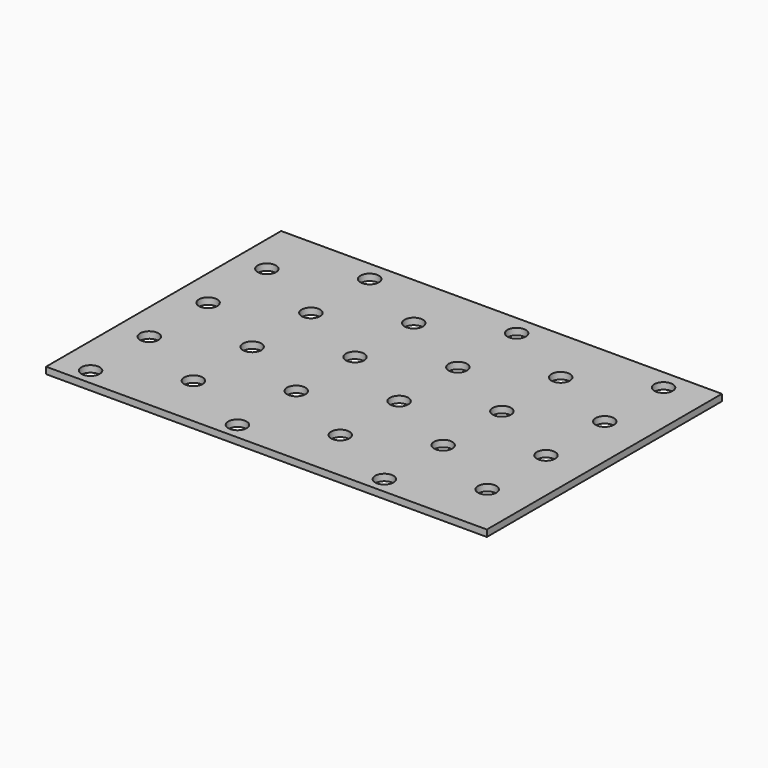
from build123d import *

# Parameters (mm, degrees)
SKETCH_W  = 120
SKETCH_H  = 80
SKETCH_R  = 2.5
PAD_DEPTH = 1.8


with BuildPart() as part:
    # Sketch → Pad (new body)
    with BuildSketch(Plane.XY):
        with Locations((60, 40)):
            Rectangle(SKETCH_W, SKETCH_H)
        with Locations((8.5, 4.5)):
            Circle(SKETCH_R, mode=Mode.SUBTRACT)
        with Locations((48.5, 4.5)):
            Circle(SKETCH_R, mode=Mode.SUBTRACT)
        with Locations((88.5, 4.5)):
            Circle(SKETCH_R, mode=Mode.SUBTRACT)
        with Locations((28.5, 14.5)):
            Circle(SKETCH_R, mode=Mode.SUBTRACT)
        with Locations((108.5, 14.5)):
            Circle(SKETCH_R, mode=Mode.SUBTRACT)
        with Locations((8.5, 24.5)):
            Circle(SKETCH_R, mode=Mode.SUBTRACT)
        with Locations((48.5, 24.5)):
            Circle(SKETCH_R, mode=Mode.SUBTRACT)
        with Locations((88.5, 24.5)):
            Circle(SKETCH_R, mode=Mode.SUBTRACT)
        with Locations((8.5, 44.5)):
            Circle(SKETCH_R, mode=Mode.SUBTRACT)
        with Locations((48.5, 44.5)):
            Circle(SKETCH_R, mode=Mode.SUBTRACT)
        with Locations((88.5, 44.5)):
            Circle(SKETCH_R, mode=Mode.SUBTRACT)
        with Locations((28.5, 54.5)):
            Circle(SKETCH_R, mode=Mode.SUBTRACT)
        with Locations((68.5, 54.5)):
            Circle(SKETCH_R, mode=Mode.SUBTRACT)
        with Locations((108.5, 54.5)):
            Circle(SKETCH_R, mode=Mode.SUBTRACT)
        with Locations((88.5, 64.5)):
            Circle(SKETCH_R, mode=Mode.SUBTRACT)
        with Locations((48.5, 64.5)):
            Circle(SKETCH_R, mode=Mode.SUBTRACT)
        with Locations((8.5, 64.5)):
            Circle(SKETCH_R, mode=Mode.SUBTRACT)
        with Locations((28.5, 34.5)):
            Circle(SKETCH_R, mode=Mode.SUBTRACT)
        with Locations((68.5, 34.5)):
            Circle(SKETCH_R, mode=Mode.SUBTRACT)
        with Locations((108.5, 34.5)):
            Circle(SKETCH_R, mode=Mode.SUBTRACT)
        with Locations((28.5, 74.5)):
            Circle(SKETCH_R, mode=Mode.SUBTRACT)
        with Locations((68.5, 74.5)):
            Circle(SKETCH_R, mode=Mode.SUBTRACT)
        with Locations((108.5, 74.5)):
            Circle(SKETCH_R, mode=Mode.SUBTRACT)
        with Locations((68.5, 14.5)):
            Circle(SKETCH_R, mode=Mode.SUBTRACT)
    extrude(amount=PAD_DEPTH)


solid = part.part
